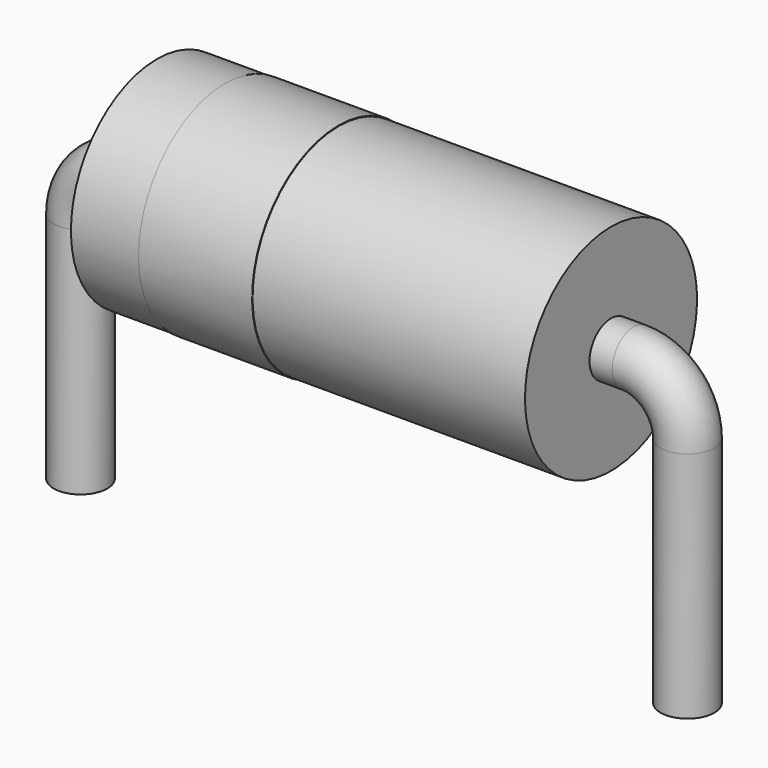
from build123d import *

# Parameters (mm, degrees)
SKETCH002_W = 7.6
SKETCH002_H = 1.8
SKETCH003_W = 1.9
SKETCH003_H = 0.02
SKETCH_R    = 0.45


with BuildPart() as revolution:
    # Sketch002 → Revolution (revolve)
    with BuildSketch(Plane.XZ):
        with Locations((5.08, 3.2)):
            Rectangle(SKETCH002_W, SKETCH002_H)
    revolve(axis=Axis((1.28, 0, 2.3), (1, 0, 0)))


with BuildPart() as revolution001:
    # Sketch003 → Revolution001 (revolve)
    with BuildSketch(Plane.XZ):
        with Locations((3.37, 4.1)):
            Rectangle(SKETCH003_W, SKETCH003_H)
    revolve(axis=Axis((0, 0, 2.3), (1, 0, 0)))


with BuildPart() as sweep_body:
    # Sweep: sweep along a path in Sketch001
    with BuildLine(Plane.XZ) as sweep_path:
        Line((0, -2.5), (0, 1.4))
        ThreePointArc((0, 1.4), (0.263604, 2.036396), (0.9, 2.3))
        Line((0.9, 2.3), (9.26, 2.3))
        ThreePointArc((9.26, 2.3), (9.896396, 2.036396), (10.16, 1.4))
        Line((10.16, 1.4), (10.16, -2.5))
    # Sketch → Sweep (sweep)
    with BuildSketch(Plane.XY.offset(-2)):
        Circle(SKETCH_R)
    sweep(path=sweep_path.line)


solid = Compound([revolution.part, revolution001.part, sweep_body.part])
